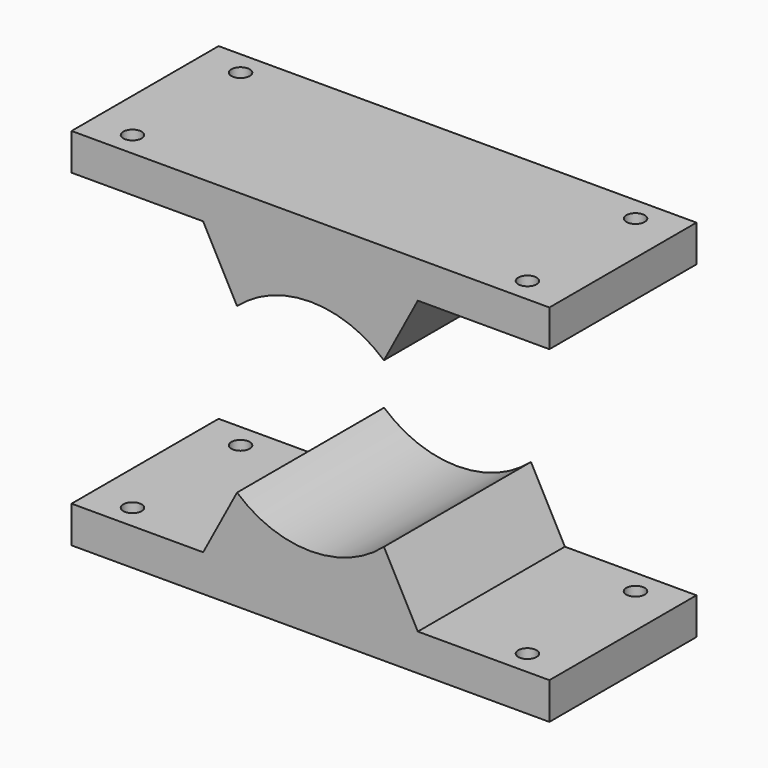
from build123d import *

# Parameters (mm, degrees)
F1_DEPTH = 50
F2_R     = 2.5
F3_DEPTH = 10


with BuildPart() as f1:
    # F0 (on Front) → F1 (new body)
    with BuildSketch(Plane.XZ):
        with BuildLine():
            Line((65, 39.628058), (65, 49.628058))
            Line((65, 49.628058), (-65, 49.628058))
            Line((-65, 49.628058), (-65, 39.628058))
            Line((-65, 39.628058), (-29.197354, 39.628058))
            Line((-29.197354, 39.628058), (-19.979691, 22.331231))
            ThreePointArc((-19.979691, 22.331231), (0, 29.875005), (19.979691, 22.331231))
            Line((19.979691, 22.331231), (29.197354, 39.628058))
            Line((29.197354, 39.628058), (65, 39.628058))
        make_face()
    extrude(amount=-F1_DEPTH)

    # F2 (on face) → F3 (cut)
    with BuildSketch(Plane.XY.offset(49.628058)):
        with Locations((-53.725392, 43.3724)):
            Circle(F2_R)
        with Locations((-53.725392, 6.6276)):
            Circle(F2_R)
        with Locations((53.725392, 43.3724)):
            Circle(F2_R)
        with Locations((53.725392, 6.6276)):
            Circle(F2_R)
    extrude(amount=-F3_DEPTH, mode=Mode.SUBTRACT)


with BuildPart() as f4_1:
    # F4: instance of F1
    add(f1.part.mirror(Plane.XY))


solid = Compound([f1.part, f4_1.part])
